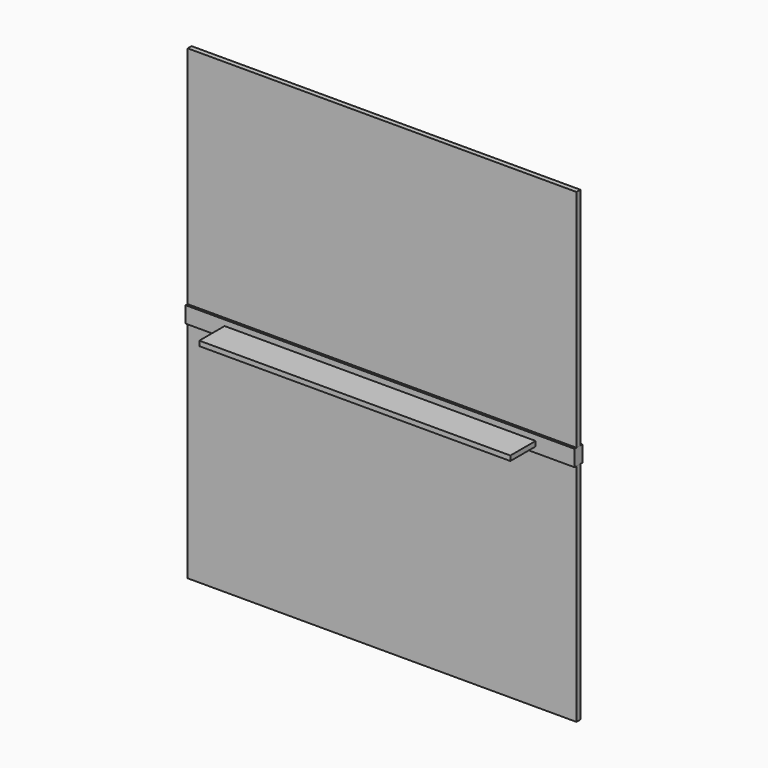
from build123d import *

# Parameters (mm, degrees)
F0_W     = 1524
F0_H     = 1828.8
F1_DEPTH = 9.525
F2_W     = 1219.2
F2_H     = 304.8
F3_DEPTH = 9.525
F4_W     = 1524
F4_H     = 38.1
F5_DEPTH = 31.75
F7_DEPTH = 6.35


with BuildPart() as f1:
    # F0 (on Front) → F1 (new body, symmetric)
    with BuildSketch(Plane.XZ):
        Rectangle(F0_W, F0_H)
    extrude(amount=F1_DEPTH, both=True)


with BuildPart() as f3:
    # F2 (on Top) → F3 (new body, symmetric)
    with BuildSketch(Plane.XY):
        with Locations((0, 9.525)):
            Rectangle(F2_W, F2_H)
    extrude(amount=F3_DEPTH, both=True)


with BuildPart() as f5:
    # F4 (on Top) → F5 (new body, symmetric)
    with BuildSketch(Plane.XY):
        Rectangle(F4_W, F4_H)
    extrude(amount=F5_DEPTH, both=True)


with BuildPart() as f7:
    # F6 (on Front) → F7 (new body, symmetric)
    with BuildSketch(Plane.XZ):
        Polygon((0, 304.8), (0, 0), (304.8, 0), align=None)
    extrude(amount=F7_DEPTH, both=True)


solid = Compound([f1.part, f3.part, f5.part, f7.part])
